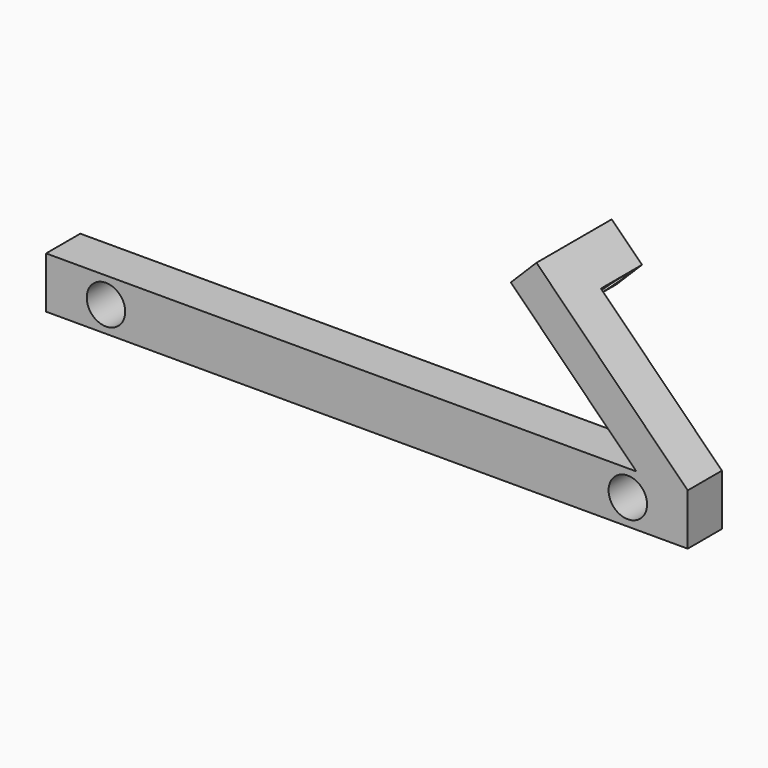
from build123d import *

# Parameters (mm, degrees)
F0_R     = 2.25
F1_DEPTH = 5
F3_DEPTH = 6
F4_R     = 1.75
F5_DEPTH = 29.243641


with BuildPart() as f1:
    # F0 (on Front) → F1 (new body)
    with BuildSketch(Plane.XZ):
        Polygon((37.5, -3), (37.5, 3), (31.5, 3), align=None)
        Polygon((31.5, 3), (37.5, 3), (19.82233, 20.67767), (16.82233, 17.67767), align=None)
        Polygon((37.5, -3), (31.5, 3), (-37.5, 3), (-37.5, -3), align=None)
        with Locations((-30.5, 0)):
            Circle(F0_R, mode=Mode.SUBTRACT)
        with Locations((30.5, 0)):
            Circle(F0_R, mode=Mode.SUBTRACT)
    extrude(amount=F1_DEPTH)

    # F2 (on face) → F3 (join)
    with BuildSketch(Plane(origin=(0, 0, 0), x_dir=(-1, 0, 0), z_dir=(0, 1, 0))):
        Polygon((-20.357864, 14.142136), (-16.82233, 17.67767), (-19.82233, 20.67767), (-23.357864, 17.142136), align=None)
    extrude(amount=F3_DEPTH)

    # F4 (on face) → F5 (cut, through all)
    with BuildSketch(Plane(origin=(-0.42767, 0, 0.42767), x_dir=(0, -1, 0), z_dir=(-0.707107, 0, 0.707107))):
        with Locations((-3.5, 26.516504)):
            Circle(F4_R)
    extrude(amount=-F5_DEPTH, mode=Mode.SUBTRACT)


solid = f1.part
